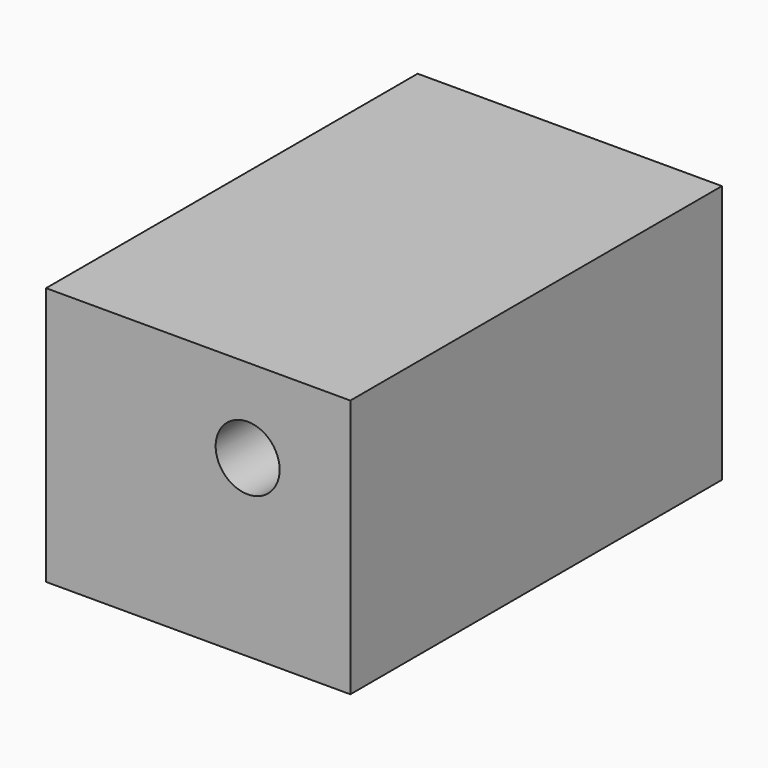
from build123d import *

# Parameters (mm, degrees)
F0_W     = 142.115966
F0_H     = 120.79817
F1_DEPTH = 127
F2_R     = 14.944743
F3_DEPTH = 127.001
F4_R     = 14.944743
F5_DEPTH = 89.927636


with BuildPart() as f1:
    # F0 (on Front) → F1 (new body)
    with BuildSketch(Plane.XZ):
        with Locations((45.540601, 37.768662)):
            Rectangle(F0_W, F0_H)
    extrude(amount=F1_DEPTH)

    # F2 (on face) → F3 (cut, through all)
    with BuildSketch(Plane.XZ.offset(127)):
        with Locations((68.631113, 58.949754)):
            Circle(F2_R)
    extrude(amount=-F3_DEPTH, mode=Mode.SUBTRACT)

    # F4 (on face) → F5 (join)
    with BuildSketch(Plane.XZ.offset(127)):
        with BuildLine():
            ThreePointArc((-25.517382, 25.873997), (3.077078, 45.820338), (26.239085, 19.762304))
            ThreePointArc((26.239085, 19.762304), (3.077078, -6.295731), (-25.517382, 13.650611))
            Line((-25.517382, 13.650611), (-25.517382, -22.630423))
            Line((-25.517382, -22.630423), (116.598584, -22.630423))
            Line((116.598584, -22.630423), (116.598584, 98.167747))
            Line((116.598584, 98.167747), (-25.517382, 98.167747))
            Line((-25.517382, 98.167747), (-25.517382, 25.873997))
        make_face()
        with Locations((68.631113, 58.949754)):
            Circle(F4_R, mode=Mode.SUBTRACT)
        with BuildLine():
            ThreePointArc((-25.517382, 13.650611), (3.077078, -6.295731), (26.239085, 19.762304))
            ThreePointArc((26.239085, 19.762304), (3.077078, 45.820338), (-25.517382, 25.873997))
            Line((-25.517382, 25.873997), (-25.517382, 13.650611))
        make_face()
    extrude(amount=F5_DEPTH)


solid = f1.part
